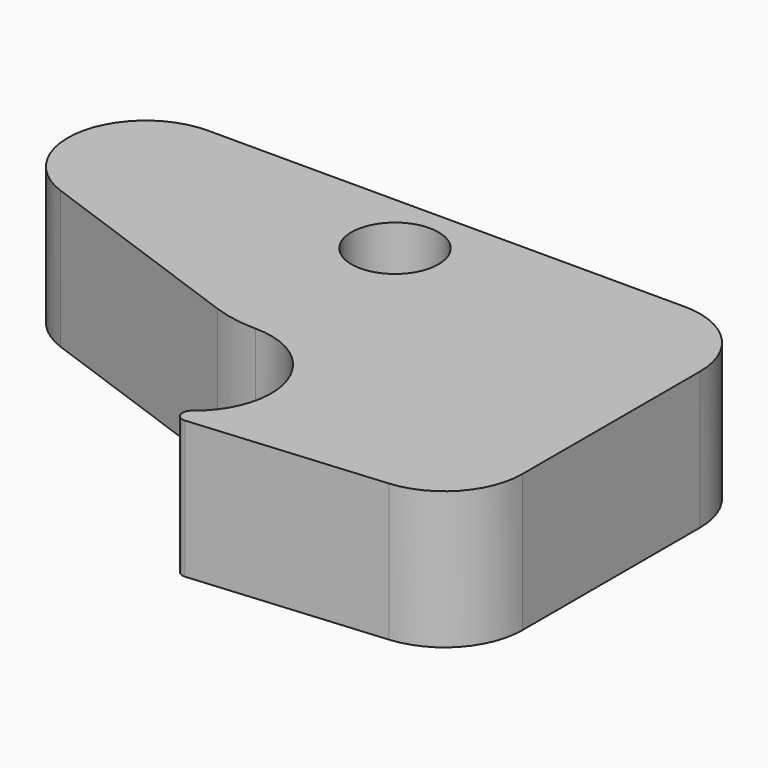
from build123d import *

# Parameters (mm, degrees)
SKETCH_R  = 0.95
PAD_DEPTH = 3


with BuildPart() as part:
    # Sketch → Pad (new body)
    with BuildSketch(Plane.XY):
        with BuildLine():
            ThreePointArc((1.04259, -1.342761), (1.608212, 0.551048), (0, 1.7))
            ThreePointArc((-0.965474, 1.868515), (-0.490035, 1.742445), (0, 1.7))
            Line((-5.775897, 3.600518), (-0.965474, 1.868515))
            ThreePointArc((-5.2, 6.9), (-6.874682, 5.492302), (-5.775897, 3.600518))
            Line((5.2, 6.9), (-5.2, 6.9))
            ThreePointArc((6.9, 5.2), (6.402082, 6.402082), (5.2, 6.9))
            Line((6.9, 0.351015), (6.9, 5.2))
            ThreePointArc((5.345348, -1.342761), (6.452416, -0.798531), (6.9, 0.351015))
            Line((1.182348, -1.7), (5.345348, -1.342761))
            ThreePointArc((1.04259, -1.342761), (0.978994, -1.573598), (1.182348, -1.7))
        make_face()
        with Locations((0, 5.5)):
            Circle(SKETCH_R, mode=Mode.SUBTRACT)
    extrude(amount=PAD_DEPTH)


solid = part.part
